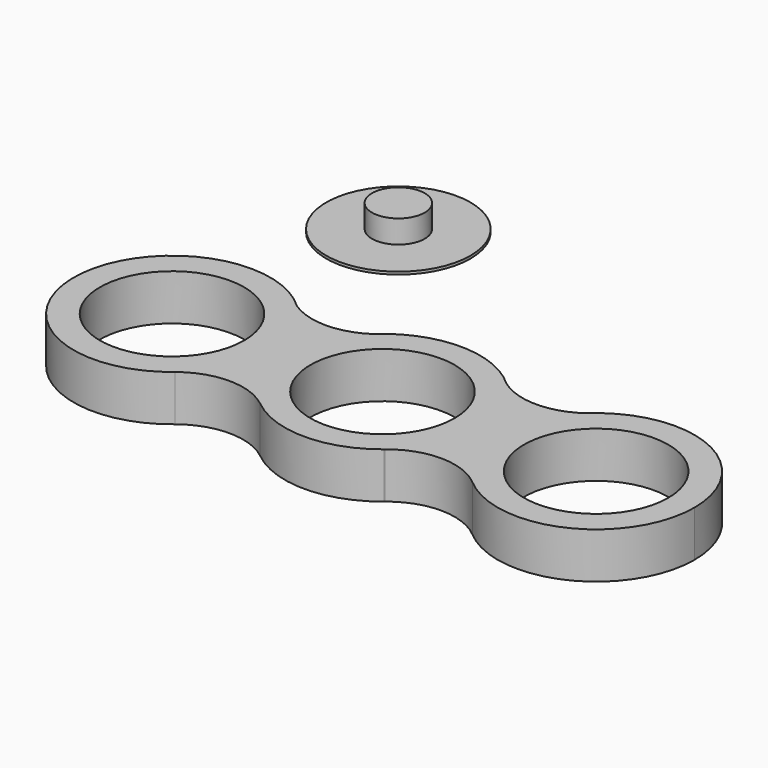
from build123d import *

# Parameters (mm, degrees)
F0_R     = 10.969873
F1_DEPTH = 7
F2_R     = 10.969873
F2_R_2   = 4.009944
F3_DEPTH = 0.4
F4_DEPTH = 3.899


with BuildPart() as f1:
    # F0 (on Top) → F1 (new body)
    with BuildSketch(Plane.XY):
        with BuildLine():
            ThreePointArc((9.531212, -11.392412), (13.457422, -6.287198), (14.853655, 0))
            ThreePointArc((14.853655, 0), (13.62721, 5.910178), (10.150407, 10.844367))
            ThreePointArc((10.150407, 10.844367), (0, 14.853655), (-10.150407, 10.844367))
            ThreePointArc((-10.150407, 10.844367), (-14.845811, -0.482663), (-9.424578, -11.480783))
            ThreePointArc((-9.424578, -11.480783), (0, -14.853655), (9.424578, -11.480783))
            ThreePointArc((9.424578, -11.480783), (9.477749, -11.436421), (9.531212, -11.392412))
        make_face()
        Circle(F0_R, mode=Mode.SUBTRACT)
        with BuildLine():
            ThreePointArc((10.150407, 10.844367), (13.62721, 5.910178), (14.853655, 0))
            ThreePointArc((14.853655, 0), (13.457422, -6.287198), (9.531212, -11.392412))
            ThreePointArc((9.531212, -11.392412), (16.20044, -9.038003), (22.83781, -11.480783))
            ThreePointArc((22.83781, -11.480783), (17.650377, -0.402473), (22.461509, 10.844367))
            ThreePointArc((22.461509, 10.844367), (16.305958, 8.833536), (10.150407, 10.844367))
        make_face()
        with BuildLine():
            ThreePointArc((9.424578, -11.480783), (9.477998, -11.436722), (9.531212, -11.392412))
            ThreePointArc((9.531212, -11.392412), (9.477749, -11.436421), (9.424578, -11.480783))
        make_face()
        with BuildLine():
            ThreePointArc((-9.424578, -11.480783), (-14.845811, -0.482663), (-10.150407, 10.844367))
            ThreePointArc((-10.150407, 10.844367), (-15.925187, 9.09922), (-21.699967, 10.844367))
            ThreePointArc((-21.699967, 10.844367), (-18.259436, 5.900198), (-17.047113, 0))
            ThreePointArc((-17.047113, 0), (-18.454974, -6.336561), (-22.413642, -11.480783))
            ThreePointArc((-22.413642, -11.480783), (-15.91911, -9.211222), (-9.424578, -11.480783))
        make_face()
        with BuildLine():
            ThreePointArc((47.575979, -0.150286), (38.613154, 13.557549), (22.461509, 10.844367))
            ThreePointArc((22.461509, 10.844367), (17.650377, -0.402473), (22.83781, -11.480783))
            ThreePointArc((22.83781, -11.480783), (38.84332, -13.755039), (47.575979, -0.150286))
        make_face()
        with Locations((32.612115, -0.150286)):
            Circle(F0_R, mode=Mode.SUBTRACT)
        with BuildLine():
            ThreePointArc((-17.047113, 0), (-18.259436, 5.900198), (-21.699967, 10.844367))
            ThreePointArc((-21.699967, 10.844367), (-46.9672, 0.47811), (-22.413642, -11.480783))
            ThreePointArc((-22.413642, -11.480783), (-18.454974, -6.336561), (-17.047113, 0))
        make_face()
        with Locations((-32.010976, 0)):
            Circle(F0_R, mode=Mode.SUBTRACT)
    extrude(amount=F1_DEPTH)


with BuildPart() as f3:
    # F2 (on Top) → F3 (new body)
    with BuildSketch(Plane.XY):
        with Locations((-32.568011, 43.723583)):
            Circle(F2_R)
        with Locations((-32.568011, 43.723583)):
            Circle(F2_R_2, mode=Mode.SUBTRACT)
    extrude(amount=F3_DEPTH)

    # F2 (on Top) → F4 (join)
    with BuildSketch(Plane.XY):
        with Locations((-32.568011, 43.723583)):
            Circle(F2_R_2)
    extrude(amount=F4_DEPTH)


solid = Compound([f1.part, f3.part])
